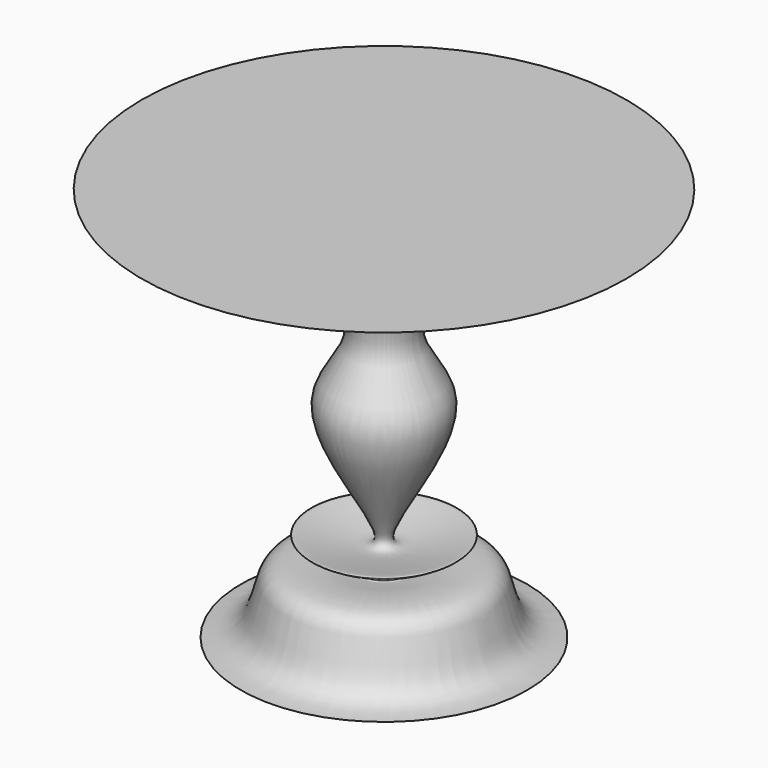
from build123d import *


with BuildPart() as f1:
    # F0 (on Front) → F1 (revolve)
    with BuildSketch(Plane.XZ):
        with BuildLine():
            add(Edge.make_bspline(
                [(38.8957671437, 63.2939827963), (16.5892915816, 62.6397316178), (10.3857017542, 58.5199177892), (2.2206016596, 41.8574558196), (12.7332591682, 33.9528315378), (2.9038078837, 19.1030104093), (-0.8464038842, 10.7846501936), (18.929643355, 17.3752115542), (-3.5079294148, 6.9480664395), (20.2365238866, 14.7817275576), (15.0240432995, 0), (23.0075465906, 0)],
                knots=[0, 0, 0, 0, 0.1768527794, 0.2900461118, 0.389249143, 0.5193835528, 0.5894609087, 0.6880484078, 0.7824437324, 0.8850400868, 1, 1, 1, 1], degree=3))
            Line((38.8957671437, 63.2939827963), (0, 63.2939827963))
            Line((0, 63.2939827963), (0, 0))
            Line((0, 0), (23.0075465906, 0))
        make_face()
    revolve(axis=Axis((0, 0, 31.6469913982), (0, 0, -1)))


solid = f1.part
